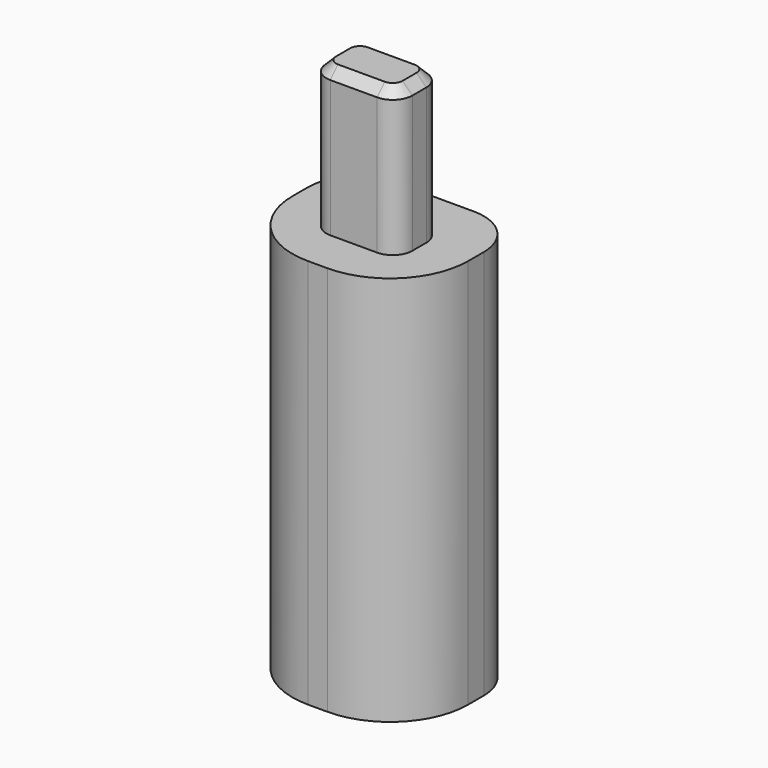
from build123d import *

# Parameters (mm, degrees)
F1_DEPTH = 40
F2_DEPTH = 15
F3_SIZE  = 1


with BuildPart() as f1:
    # F0 (on Top) → F1 (new body)
    with BuildSketch(Plane.XY):
        with BuildLine():
            Line((4, 7.5), (-4, 7.5))
            ThreePointArc((-4, 7.5), (-7.5355339059, 6.0355339059), (-9, 2.5))
            Line((-9, 2.5), (-9, 0.5))
            ThreePointArc((-9, 0.5), (-6.6568542495, -5.1568542495), (-1, -7.5))
            Line((-1, -7.5), (1, -7.5))
            ThreePointArc((1, -7.5), (6.6568542495, -5.1568542495), (9, 0.5))
            Line((9, 0.5), (9, 2.5))
            ThreePointArc((9, 2.5), (7.5355339059, 6.0355339059), (4, 7.5))
        make_face()
        with BuildLine():
            ThreePointArc((-4.4, 0.9), (-3.8142135624, 2.3142135624), (-2.4, 2.9))
            Line((-2.4, 2.9), (2.4, 2.9))
            ThreePointArc((2.4, 2.9), (3.8142135624, 2.3142135624), (4.4, 0.9))
            Line((4.4, 0.9), (4.4, -0.9))
            ThreePointArc((4.4, -0.9), (3.8142135624, -2.3142135624), (2.4, -2.9))
            Line((2.4, -2.9), (-2.4, -2.9))
            ThreePointArc((-2.4, -2.9), (-3.8142135624, -2.3142135624), (-4.4, -0.9))
            Line((-4.4, -0.9), (-4.4, 0.9))
        make_face(mode=Mode.SUBTRACT)
        with BuildLine():
            Line((2.4, 2.9), (-2.4, 2.9))
            ThreePointArc((-2.4, 2.9), (-3.8142135624, 2.3142135624), (-4.4, 0.9))
            Line((-4.4, 0.9), (-4.4, -0.9))
            ThreePointArc((-4.4, -0.9), (-3.8142135624, -2.3142135624), (-2.4, -2.9))
            Line((-2.4, -2.9), (2.4, -2.9))
            ThreePointArc((2.4, -2.9), (3.8142135624, -2.3142135624), (4.4, -0.9))
            Line((4.4, -0.9), (4.4, 0.9))
            ThreePointArc((4.4, 0.9), (3.8142135624, 2.3142135624), (2.4, 2.9))
        make_face()
    extrude(amount=-F1_DEPTH)

    # F0 (on Top) → F2 (join)
    with BuildSketch(Plane.XY):
        with BuildLine():
            Line((2.4, 2.9), (-2.4, 2.9))
            ThreePointArc((-2.4, 2.9), (-3.8142135624, 2.3142135624), (-4.4, 0.9))
            Line((-4.4, 0.9), (-4.4, -0.9))
            ThreePointArc((-4.4, -0.9), (-3.8142135624, -2.3142135624), (-2.4, -2.9))
            Line((-2.4, -2.9), (2.4, -2.9))
            ThreePointArc((2.4, -2.9), (3.8142135624, -2.3142135624), (4.4, -0.9))
            Line((4.4, -0.9), (4.4, 0.9))
            ThreePointArc((4.4, 0.9), (3.8142135624, 2.3142135624), (2.4, 2.9))
        make_face()
    extrude(amount=F2_DEPTH)

    # F3
    f3_edges = [f1.edges().sort_by_distance(p)[0] for p in [
        (0, 2.9, 15),
        (-3.814214, 2.314214, 15),
        (-4.4, 0, 15),
        (-3.814214, -2.314214, 15),
        (0, -2.9, 15),
        (3.814214, -2.314214, 15),
        (4.4, 0, 15),
        (3.814214, 2.314214, 15),
    ]]
    chamfer(f3_edges, length=F3_SIZE)


solid = f1.part
